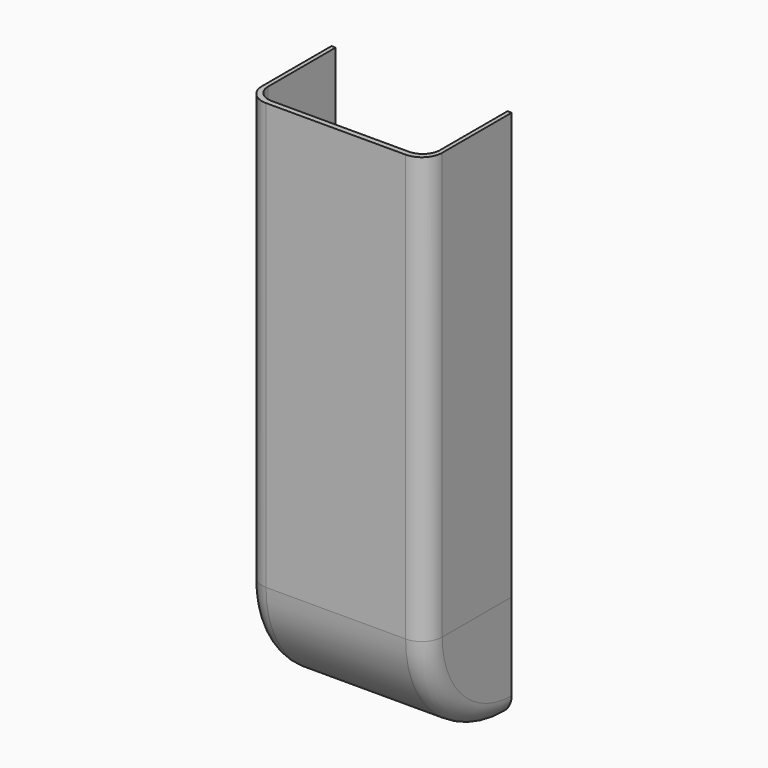
from build123d import *

# Parameters (mm, degrees)
F1_DEPTH = 5
F2_DEPTH = 88
F4_ANGLE = 90
F5_DEPTH = 30.7


with BuildPart() as f1:
    # F0 (on Top) → F1 (new body)
    with BuildSketch(Plane.XY):
        with BuildLine():
            Line((-53.8010563154, 43.703429322), (-55.0010563154, 43.703429322))
            Line((-55.0010563154, 43.703429322), (-55.0010563154, 18.503429322))
            ThreePointArc((-55.0010563154, 18.503429322), (-53.2729863244, 14.331499313), (-49.1010563154, 12.603429322))
            Line((-49.1010563154, 12.603429322), (-8.6084170097, 12.603429322))
            ThreePointArc((-8.6084170097, 12.603429322), (-4.4312822038, 14.3336552105), (-2.7010563154, 18.5107900163))
            Line((-2.7010563154, 18.5107900163), (-2.7010563154, 43.703429322))
            Line((-2.7010563154, 43.703429322), (-3.9010563154, 43.703429322))
            Line((-3.9010563154, 43.703429322), (-3.9010563154, 19.2319015726))
            ThreePointArc((-3.9010563154, 19.2319015726), (-5.3738617386, 15.6762347452), (-8.9295285659, 14.203429322))
            Line((-8.9295285659, 14.203429322), (-48.7725840648, 14.203429322))
            ThreePointArc((-48.7725840648, 14.203429322), (-52.3282508922, 15.6762347452), (-53.8010563154, 19.2319015726))
            Line((-53.8010563154, 19.2319015726), (-53.8010563154, 43.703429322))
        make_face()
    extrude(amount=F1_DEPTH)

    # F2 (add): a face of the model
    f2_faces = [f1.faces().sort_by_distance(p)[0] for p in [
        (-3.2925745983, 31.4676654473, 5),
    ]]
    extrude(f2_faces, amount=F2_DEPTH)

    # F5 (add): a face of the model
    f5_faces = [f1.faces().sort_by_distance(p)[0] for p in [
        (-3.2925745983, 31.4676654473, 93),
    ]]
    extrude(f5_faces, amount=F5_DEPTH)


with BuildPart() as f4:
    # F3 (on face) → F4 (revolve)
    with BuildSketch(Plane(origin=(0, 0, 0), x_dir=(1, 0, 0), z_dir=(0, 0, -1))):
        with BuildLine():
            ThreePointArc((-8.9295285659, -14.203429322), (-5.3738617386, -15.6762347452), (-3.9010563154, -19.2319015726))
            Line((-3.9010563154, -19.2319015726), (-2.7010563154, -18.5107900163))
            ThreePointArc((-2.7010563154, -18.5107900163), (-4.4312822038, -14.3336552105), (-8.6084170097, -12.603429322))
            Line((-8.6084170097, -12.603429322), (-49.1010563154, -12.603429322))
            ThreePointArc((-49.1010563154, -12.603429322), (-53.2729863244, -14.331499313), (-55.0010563154, -18.503429322))
            Line((-55.0010563154, -18.503429322), (-53.8010563154, -19.2319015726))
            ThreePointArc((-53.8010563154, -19.2319015726), (-52.3282508922, -15.6762347452), (-48.7725840648, -14.203429322))
            Line((-48.7725840648, -14.203429322), (-8.9295285659, -14.203429322))
        make_face()
        Polygon((-2.7010563154, -18.5107900163), (-3.9010563154, -19.2319015726), (-3.9010563154, -43.703429322), (-2.7010563154, -43.703429322), align=None)
        Polygon((-53.8010563154, -43.703429322), (-53.8010563154, -19.2319015726), (-55.0010563154, -18.503429322), (-55.0010563154, -43.703429322), align=None)
    revolve(axis=Axis((-3.3010563154, 43.703429322, 0), (1, 0, 0)), revolution_arc=F4_ANGLE)


solid = Compound([f1.part, f4.part])
